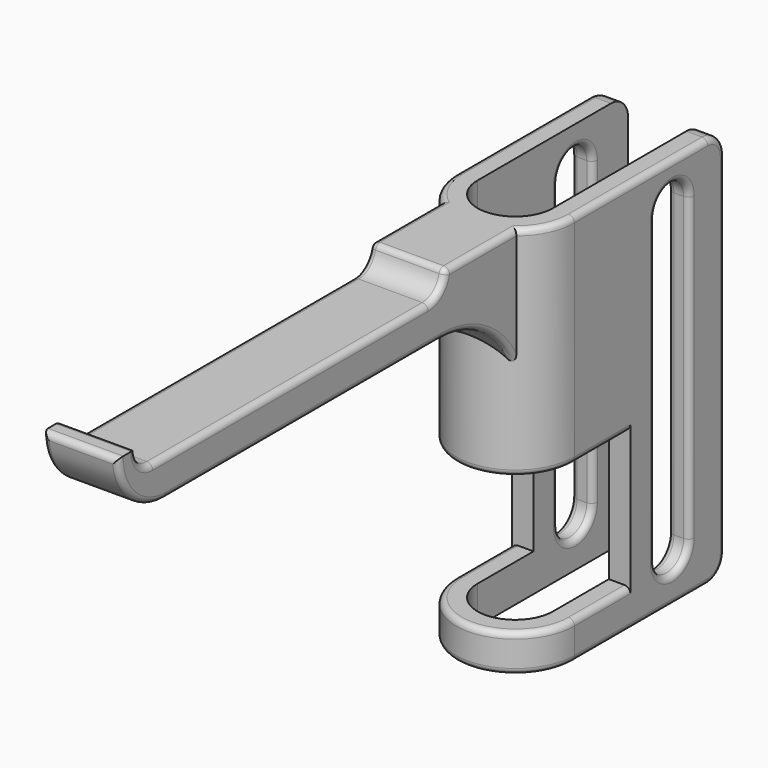
from build123d import *

# Parameters (mm, degrees)
PAD004_DEPTH         = 73
POCKET001_DEPTH      = 11.001
POCKET001_DEPTH_BACK = 11.001
SKETCH009_W          = 24
SKETCH009_H          = 25.5
POCKET002_DEPTH      = 11.001
POCKET002_DEPTH_BACK = 11.001
PAD005_DEPTH         = 7
FILLET002_R          = 4
FILLET003_R          = 1.1


with BuildPart() as part:
    # Sketch007 → Pad004 (new body)
    with BuildSketch(Plane.XY):
        with BuildLine():
            Line((-7, 35), (-7, 0))
            ThreePointArc((-7, 0), (0, -7), (7, 0))
            Line((7, 0), (7, 35))
            Line((7, 35), (11, 35))
            Line((11, 35), (11, 0))
            ThreePointArc((-11, 0), (0, -11), (11, 0))
            Line((-11, 0), (-11, 35))
            Line((-11, 35), (-7, 35))
        make_face()
    extrude(amount=-PAD004_DEPTH)

    # Sketch008 → Pocket001 (cut, two sides)
    with BuildSketch(Plane.YZ) as pocket001_sk:
        with BuildLine():
            ThreePointArc((26.75, -8), (22.75, -4), (18.75, -8))
            Line((18.75, -8), (18.75, -64))
            ThreePointArc((18.75, -64), (22.75, -68), (26.75, -64))
            Line((26.75, -64), (26.75, -8))
        make_face()
    extrude(amount=-POCKET001_DEPTH, mode=Mode.SUBTRACT)
    extrude(pocket001_sk.sketch, amount=POCKET001_DEPTH_BACK, mode=Mode.SUBTRACT)

    # Sketch009 → Pocket002 (cut, two sides)
    with BuildSketch(Plane.YZ) as pocket002_sk:
        with Locations((1, -53.25)):
            Rectangle(SKETCH009_W, SKETCH009_H)
    extrude(amount=-POCKET002_DEPTH, mode=Mode.SUBTRACT)
    extrude(pocket002_sk.sketch, amount=POCKET002_DEPTH_BACK, mode=Mode.SUBTRACT)

    # Sketch010 → Pad005 (join, symmetric)
    with BuildSketch(Plane.YZ):
        with BuildLine():
            Line((-7, 0), (-25, 0))
            ThreePointArc((-29, -4), (-26.171573, -2.828427), (-25, 0))
            Line((-29, -4), (-93, -4))
            ThreePointArc((-97, 0), (-95.828427, -2.828427), (-93, -4))
            Line((-97, 0), (-101, 0))
            ThreePointArc((-101, 0), (-97.778175, -7.778175), (-90, -11))
            Line((-90, -11), (-26.1, -11))
            ThreePointArc((-7.1, -30), (-12.664971, -16.564971), (-26.1, -11))
            Line((-7.1, -30), (-7, -30))
            Line((-7, -30), (-7, 0))
        make_face()
    extrude(amount=PAD005_DEPTH, both=True)

    # Fillet002
    fillet002_edges = [part.edges().sort_by_distance(p)[0] for p in [
        (9, 35, 0),
        (-9, 35, 0),
        (-9, 35, -73),
        (9, 35, -73),
    ]]
    fillet(fillet002_edges, radius=FILLET002_R)

    # Fillet003
    fillet003_edges = [part.edges().sort_by_distance(p)[0] for p in [
        (9.949874, -4.690416, 0),
        (7, -16.742641, 0),
        (11, 15.5, 0),
        (-7, -16.742641, 0),
        (0, -25, 0),
        (-7, -26.171573, -2.828427),
        (7, -26.171573, -2.828427),
        (7, -95.828427, -2.828427),
        (-7, -95.828427, -2.828427),
        (0, -97, 0),
        (0, -101, 0),
        (7, -97.778175, -7.778175),
        (-7, -97.778175, -7.778175),
        (7.778175, -7.778175, -40.5),
        (7.778175, -7.778175, -66),
        (-7, 22.75, -68),
        (11, 22.75, -68),
        (-11, 22.75, -68),
        (7, 22.75, -68),
    ]]
    fillet(fillet003_edges, radius=FILLET003_R)


solid = part.part
